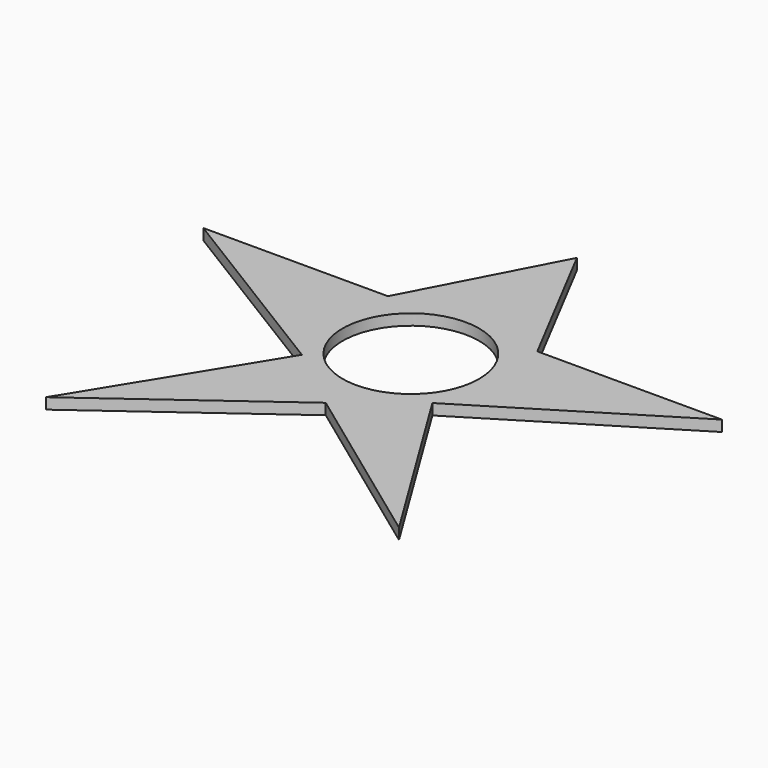
from build123d import *

# Parameters (mm, degrees)
F0_R     = 24.104169
F1_DEPTH = 3.865449


with BuildPart() as f1:
    # F0 (on Top) → F1 (new body)
    with BuildSketch(Plane.XY):
        Polygon((0, 73.232383), (-26.347086, 22.820294), (-91.48863, 22.820294), (-23.027778, -19.293502), (-62.257187, -83.06545), (0, -37.549734), (62.257187, -83.06545), (23.027778, -19.293502), (91.48863, 22.820294), (26.347086, 22.820294), align=None)
        Circle(F0_R, mode=Mode.SUBTRACT)
    extrude(amount=F1_DEPTH)


solid = f1.part
